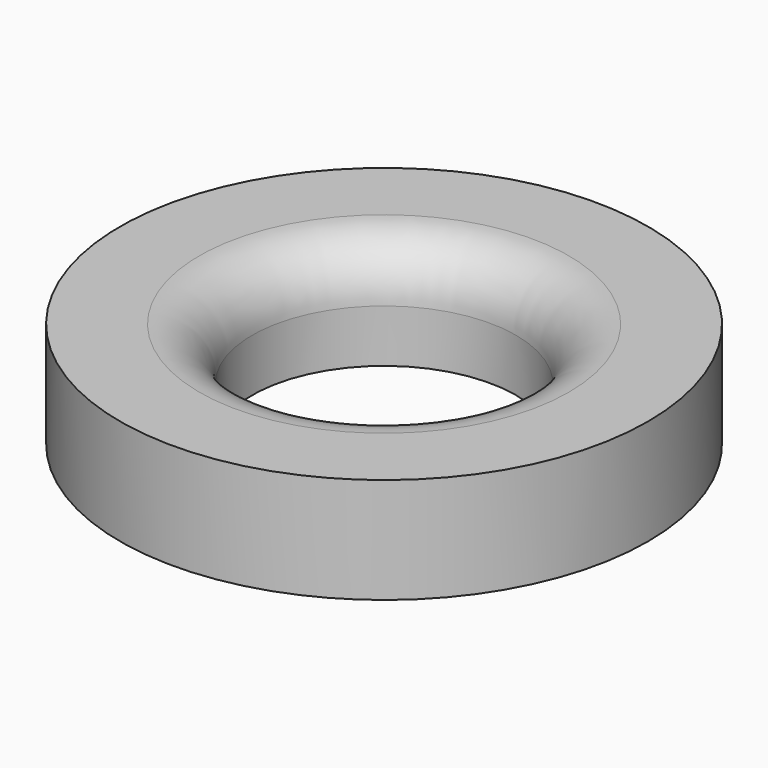
from build123d import *

# Parameters (mm, degrees)
SKETCH_R   = 5
SKETCH_R_2 = 2.5
PAD_DEPTH  = 2
FILLET_R   = 1


with BuildPart() as part:
    # Sketch → Pad (new body)
    with BuildSketch(Plane.XY):
        Circle(SKETCH_R)
        Circle(SKETCH_R_2, mode=Mode.SUBTRACT)
    extrude(amount=PAD_DEPTH)

    # Fillet
    fillet_edges = [part.edges().sort_by_distance(p)[0] for p in [
        (-2.5, 0, 2),
    ]]
    fillet(fillet_edges, radius=FILLET_R)


solid = part.part
